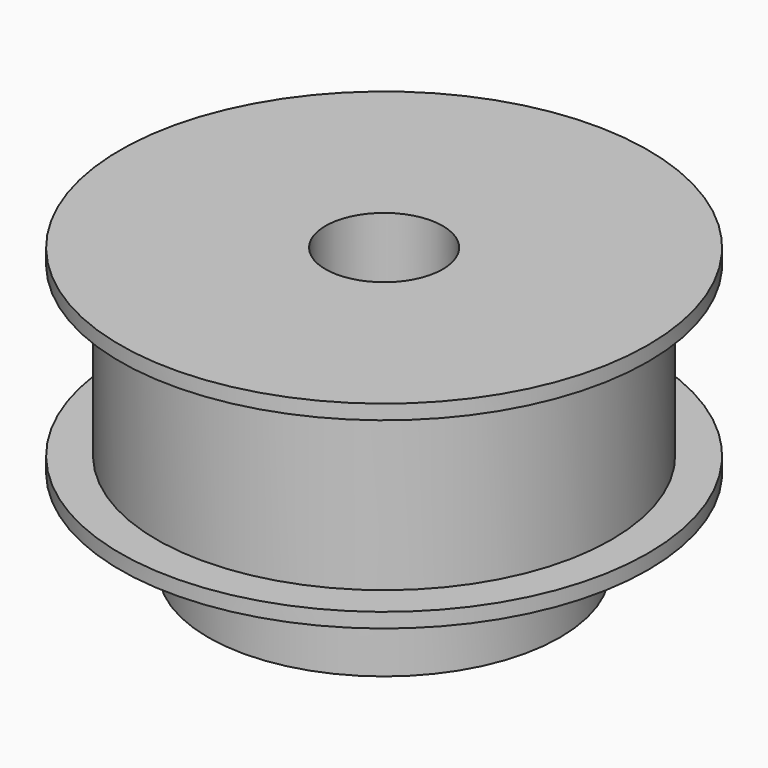
from build123d import *

# Parameters (mm, degrees)
F0_R     = 15.5
F1_DEPTH = 11.5
F2_R     = 18
F3_DEPTH = 1
F4_R     = 18
F5_DEPTH = 1
F6_R     = 12
F7_DEPTH = 6
F8_R     = 4
F9_DEPTH = 19.501


with BuildPart() as f1:
    # F0 (on Top) → F1 (new body)
    with BuildSketch(Plane.XY):
        Circle(F0_R)
    extrude(amount=F1_DEPTH)

    # F2 (on face) → F3 (join)
    with BuildSketch(Plane.XY.offset(11.5)):
        Circle(F2_R)
    extrude(amount=F3_DEPTH)

    # F4 (on Top) → F5 (join)
    with BuildSketch(Plane.XY):
        Circle(F4_R)
    extrude(amount=-F5_DEPTH)

    # F6 (on face) → F7 (join)
    with BuildSketch(Plane(origin=(0, 0, -1), x_dir=(1, 0, 0), z_dir=(0, 0, -1))):
        Circle(F6_R)
    extrude(amount=F7_DEPTH)

    # F8 (on face) → F9 (cut, through all)
    with BuildSketch(Plane(origin=(0, 0, -7), x_dir=(1, 0, 0), z_dir=(0, 0, -1))):
        Circle(F8_R)
    extrude(amount=-F9_DEPTH, mode=Mode.SUBTRACT)


solid = f1.part
